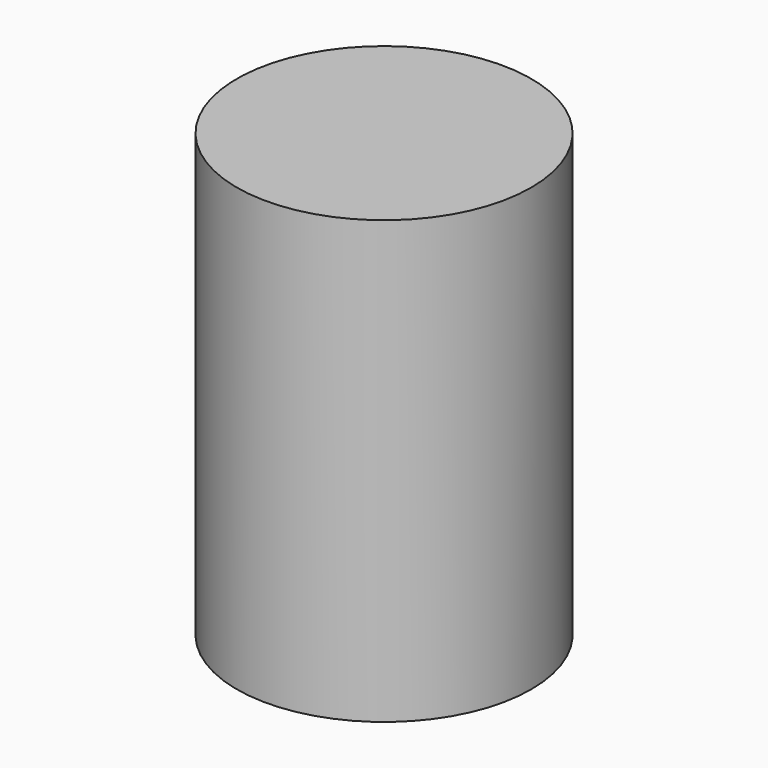
from build123d import *

# Parameters (mm, degrees)
CYLINDER003_R     = 12
CYLINDER003_DEPTH = 36
BOX_W             = 25
BOX_H             = 25
BOX_DEPTH         = 36
CYLINDER002_R     = 5
CYLINDER002_DEPTH = 12
CYLINDER001_R     = 7.8
CYLINDER001_DEPTH = 12
CYLINDER_R        = 10
CYLINDER_DEPTH    = 28
CHAMFER_SIZE      = 2.7
CHAMFER001_SIZE   = 1


with BuildPart() as cylinder003:
    # Cylinder003 → Cylinder003 (new body)
    with BuildSketch(Plane.XY):
        Circle(CYLINDER003_R)
    extrude(amount=CYLINDER003_DEPTH)


with BuildPart() as cube:
    # Box → Box (new body)
    with BuildSketch(Plane(origin=(-11, -13, 3), x_dir=(1, 0, 0), z_dir=(0, 0, 1))):
        with Locations((12.5, 12.5)):
            Rectangle(BOX_W, BOX_H)
    extrude(amount=BOX_DEPTH)


with BuildPart() as cylinder002:
    # Cylinder002 → Cylinder002 (new body)
    with BuildSketch(Plane.XY.offset(12)):
        Circle(CYLINDER002_R)
    extrude(amount=CYLINDER002_DEPTH)


with BuildPart() as fusion:
    # Cylinder001 → Cylinder001 (new body)
    with BuildSketch(Plane.XY):
        Circle(CYLINDER001_R)
    extrude(amount=CYLINDER001_DEPTH)

    # Fusion: union Cylinder002
    add(cylinder002.part)


with BuildPart() as cut001:
    # Cylinder → Cylinder (new body)
    with BuildSketch(Plane.XY):
        Circle(CYLINDER_R)
    extrude(amount=CYLINDER_DEPTH)

    # Cut: cut Fusion
    add(fusion.part, mode=Mode.SUBTRACT)

    # Chamfer
    chamfer_edges = [cut001.edges().sort_by_distance(p)[0] for p in [
        (-5, 0, 12),
    ]]
    chamfer(chamfer_edges, length=CHAMFER_SIZE)

    # Chamfer001
    chamfer001_edges = [cut001.edges().sort_by_distance(p)[0] for p in [
        (-7.8, 0, 0),
    ]]
    chamfer(chamfer001_edges, length=CHAMFER001_SIZE)

    # Cut001: cut Cube
    add(cube.part, mode=Mode.SUBTRACT)


solid = Compound([cylinder003.part, cut001.part])
